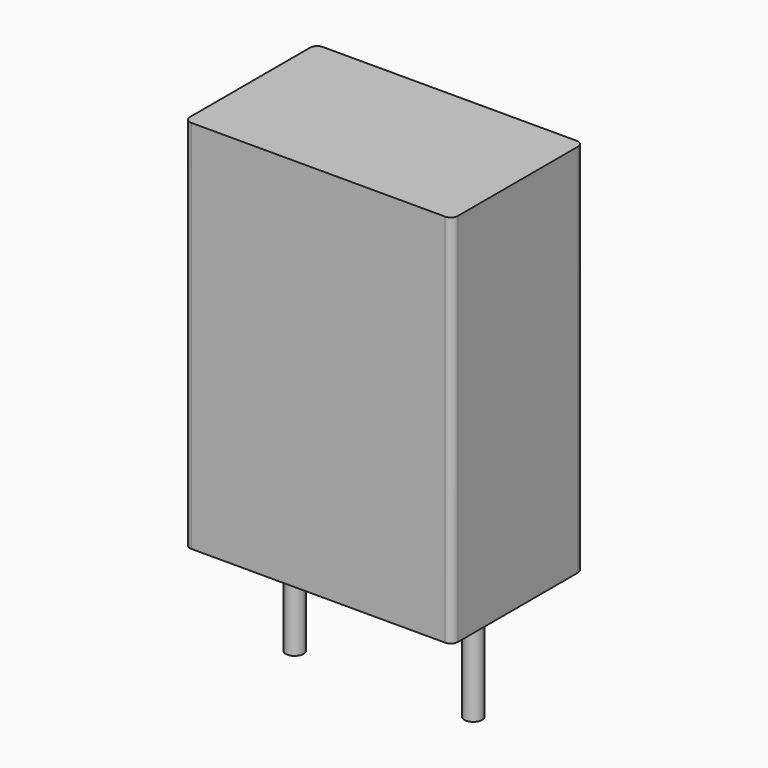
from build123d import *

# Parameters (mm, degrees)
SKETCH001_R  = 0.25
PAD001_DEPTH = 3.5
SKETCH_W     = 7.5
SKETCH_H     = 4.6
PAD_DEPTH    = 10.5
FILLET_R     = 0.2


with BuildPart() as pad001:
    # Sketch001 → Pad001 (new body)
    with BuildSketch(Plane.XY.offset(0.5)):
        Circle(SKETCH001_R)
        with Locations((5, 0)):
            Circle(SKETCH001_R)
    extrude(amount=-PAD001_DEPTH)


with BuildPart() as fillet_body:
    # Sketch → Pad (new body)
    with BuildSketch(Plane.XY.offset(0.1)):
        with Locations((2.5, 0)):
            Rectangle(SKETCH_W, SKETCH_H)
    extrude(amount=PAD_DEPTH)

    # Fillet
    fillet_edges = [fillet_body.edges().sort_by_distance(p)[0] for p in [
        (6.25, -2.3, 5.35),
        (6.25, 2.3, 5.35),
        (-1.25, -2.3, 5.35),
        (-1.25, 2.3, 5.35),
    ]]
    fillet(fillet_edges, radius=FILLET_R)


solid = Compound([pad001.part, fillet_body.part])
